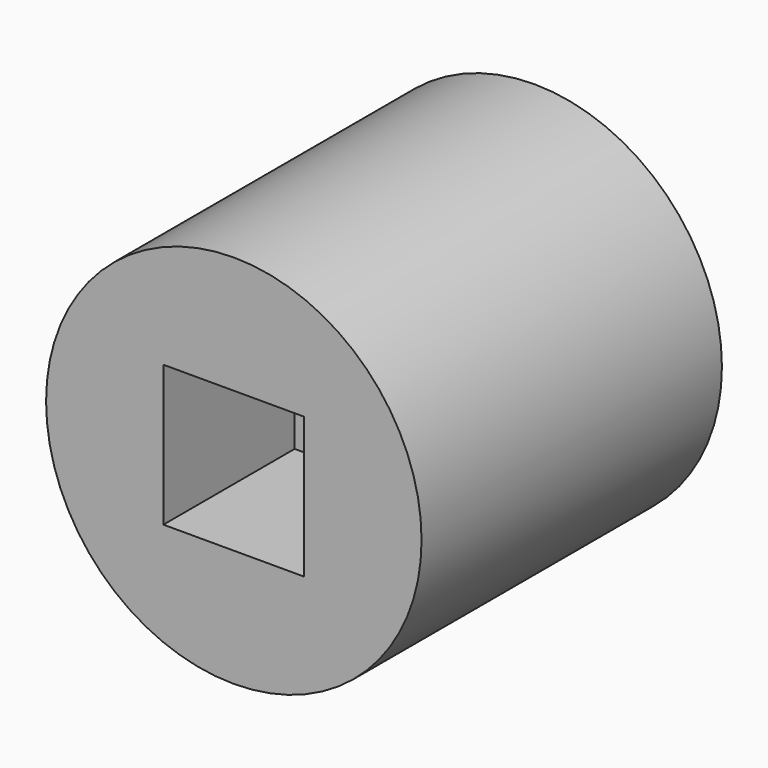
from build123d import *

# Parameters (mm, degrees)
F0_R     = 12.7
F1_DEPTH = 25.4
F3_DEPTH = 25.401
F4_DEPTH = 11.0998
F6_DEPTH = 9.525


with BuildPart() as f1:
    # F0 (on Front) → F1 (new body)
    with BuildSketch(Plane.XZ):
        Circle(F0_R)
    extrude(amount=-F1_DEPTH)

    # F2 (on Front) → F3 (cut, through all)
    with BuildSketch(Plane.XZ):
        with BuildLine():
            ThreePointArc((-4.7625, 0), (-3.367596, -3.367596), (0, -4.7625))
            ThreePointArc((0, -4.7625), (3.367596, -3.367596), (4.7625, 0))
            ThreePointArc((4.7625, 0), (3.367596, 3.367596), (0, 4.7625))
            ThreePointArc((0, 4.7625), (-3.367596, 3.367596), (-4.7625, 0))
        make_face()
    extrude(amount=-F3_DEPTH, mode=Mode.SUBTRACT)

    # F2 (on Front) → F4 (cut)
    with BuildSketch(Plane.XZ):
        with BuildLine():
            Line((0, -4.7625), (4.7625, -4.7625))
            Line((4.7625, -4.7625), (4.7625, 0))
            ThreePointArc((4.7625, 0), (3.367596, -3.367596), (0, -4.7625))
        make_face()
        with BuildLine():
            Line((-4.7625, -4.7625), (0, -4.7625))
            ThreePointArc((0, -4.7625), (-3.367596, -3.367596), (-4.7625, 0))
            Line((-4.7625, 0), (-4.7625, -4.7625))
        make_face()
        with BuildLine():
            ThreePointArc((0, 4.7625), (3.367596, 3.367596), (4.7625, 0))
            Line((4.7625, 0), (4.7625, 4.7625))
            Line((4.7625, 4.7625), (0, 4.7625))
        make_face()
        with BuildLine():
            Line((-4.7625, 4.7625), (-4.7625, 0))
            ThreePointArc((-4.7625, 0), (-3.367596, 3.367596), (0, 4.7625))
            Line((0, 4.7625), (-4.7625, 4.7625))
        make_face()
    extrude(amount=-F4_DEPTH, mode=Mode.SUBTRACT)

    # F5 (on face) → F6 (cut)
    with BuildSketch(Plane(origin=(0, 25.4, 0), x_dir=(-1, 0, 0), z_dir=(0, 1, 0))):
        Polygon((-6.918703, -2.621455), (-1.189105, -7.3025), (5.729598, -4.681045), (6.918703, 2.621455), (1.189105, 7.3025), (-5.729598, 4.681045), align=None)
    extrude(amount=-F6_DEPTH, mode=Mode.SUBTRACT)


solid = f1.part
